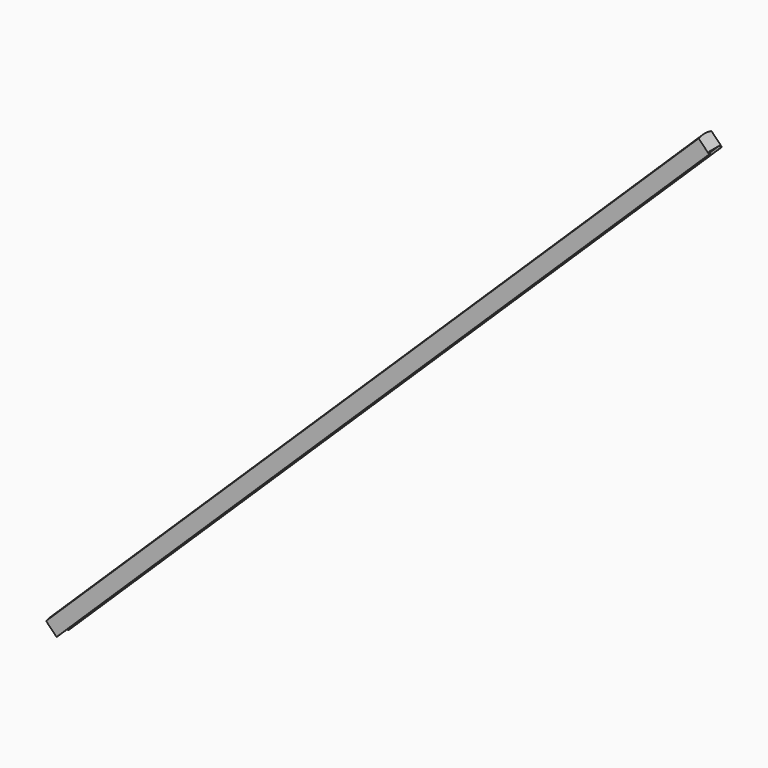
from build123d import *

# Parameters (mm, degrees)
EXTRUDE001_DEPTH           = 2850
EXTRUDE001_ROLL_ANGLE      = -179.999992
EXTRUDE001_PITCH_ANGLE     = -45.690277
EXTRUDE001_PLACEMENT_ANGLE = 179.999997


with BuildPart() as part:
    # Wire → Extrude001 (new body)
    with BuildSketch(Plane(origin=(-451.161164, -905.45842, 0), x_dir=(0, 1, 0), z_dir=(0, 0, 1))):
        with BuildLine():
            add(Edge.make_bspline(
                [(25, -21.225616), (25, 25.598967)],
                knots=[0, 0, 468.245837, 468.245837], degree=1))
            add(Edge.make_bspline(
                [(25, 25.598967), (20, 25.598967)],
                knots=[0, 0, 50, 50], degree=1))
            add(Edge.make_bspline(
                [(20, 25.598967), (20, 19.598967)],
                knots=[0, 0, 60, 60], degree=1))
            add(Edge.make_bspline(
                [(20, 19.598967), (-20, 19.598967)],
                knots=[0, 0, 400, 400], degree=1))
            add(Edge.make_bspline(
                [(-20, 19.598967), (-20, 25.598967)],
                knots=[0, 0, 60, 60], degree=1))
            add(Edge.make_bspline(
                [(-20, 25.598967), (-25, 25.598967)],
                knots=[0, 0, 50, 50], degree=1))
            add(Edge.make_bspline(
                [(-25, 25.598967), (-25, -21.225616)],
                knots=[0, 0, 468.245837, 468.245837], degree=1))
            add(Edge.make_bspline(
                [(-25, -21.225616), (0, -27.680588), (25, -21.225616)],
                knots=[1.318116, 1.318116, 1.318116, 1.823477, 1.823477, 1.823477], degree=2, weights=[1, 0.968246, 1]))
        make_face()
    extrude(amount=-EXTRUDE001_DEPTH)


with BuildPart() as part_1:
    # Extrude001 roll: moved
    add(part.part.rotate(Axis((0, 0, 0), (1, 0, 0)), EXTRUDE001_ROLL_ANGLE))


with BuildPart() as part_2:
    # Extrude001 pitch: moved
    add(part_1.part.rotate(Axis((0, 0, 0), (0, 1, 0)), EXTRUDE001_PITCH_ANGLE))


with BuildPart() as part_3:
    # Extrude001 placement: moved
    add(part_2.part.moved(Location((-318.107664, 494.458438, 1490.854639))).rotate(Axis((-318.107664, 494.458438, 1490.854639), (0, 0, 1)), EXTRUDE001_PLACEMENT_ANGLE))


solid = part_3.part
